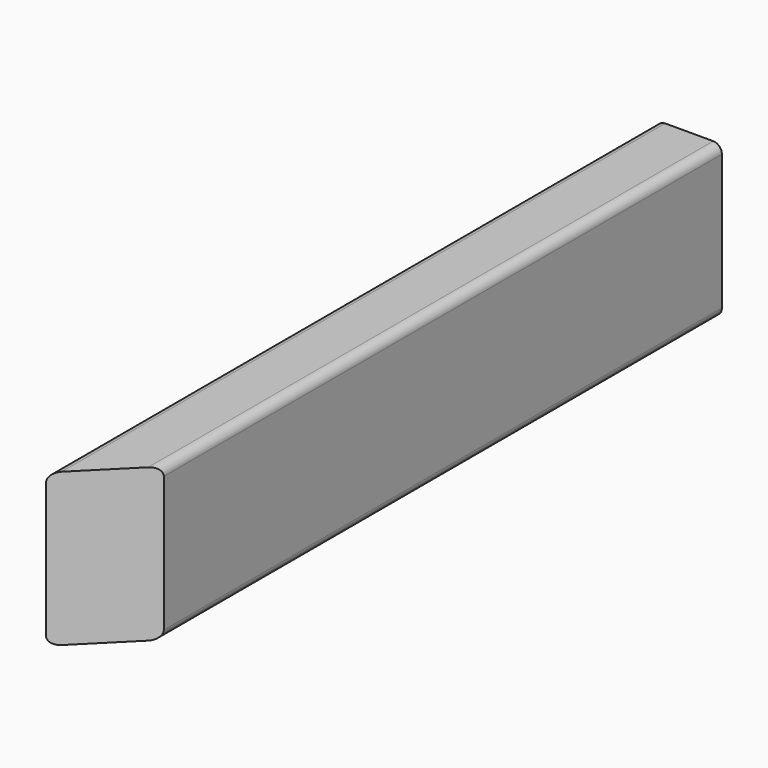
from build123d import *

# Parameters (mm, degrees)
F0_W     = 38.1
F0_H     = 88.9
F1_DEPTH = 444.5
F3_DEPTH = 88.9
F4_R     = 5.08


with BuildPart() as f1:
    # F0 (on Front) → F1 (new body)
    with BuildSketch(Plane.XZ):
        with Locations((2.837234, -1.626216)):
            Rectangle(F0_W, F0_H)
    extrude(amount=F1_DEPTH)

    # F2 (on face) → F3 (cut)
    with BuildSketch(Plane.XY.offset(42.823784)):
        Polygon((21.887234, -406.4), (-16.212766, -444.5), (21.887234, -444.5), align=None)
    extrude(amount=-F3_DEPTH, mode=Mode.SUBTRACT)

    # F4
    f4_edges = [f1.edges().sort_by_distance(p)[0] for p in [
        (21.887234, -203.2, 42.823784),
        (21.887234, -203.2, -46.076216),
        (-16.212766, -222.25, 42.823784),
        (-16.212766, -222.25, -46.076216),
    ]]
    fillet(f4_edges, radius=F4_R)


solid = f1.part
